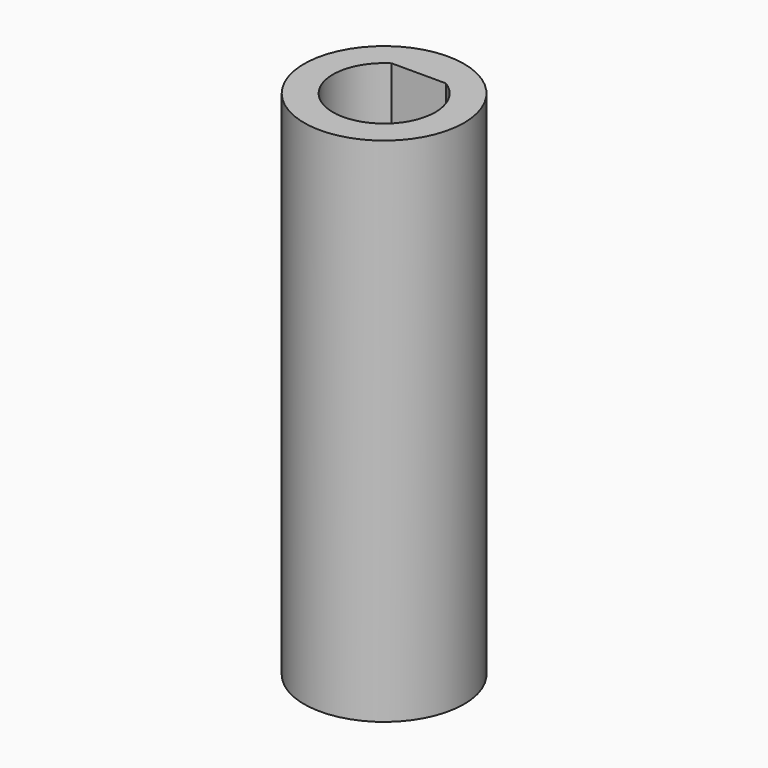
from build123d import *

# Parameters (mm, degrees)
F0_R     = 5
F1_DEPTH = 12
F2_R     = 5
F3_DEPTH = 20


with BuildPart() as f1:
    # F0 (on Top) → F1 (new body)
    with BuildSketch(Plane.XY):
        Circle(F0_R)
        with BuildLine():
            ThreePointArc((1.7, 2.711088), (2.8, 1.549193), (3.2, 0))
            ThreePointArc((3.2, 0), (-1.549193, -2.8), (-1.7, 2.711088))
            ThreePointArc((-1.7, 2.711088), (0, 3.2), (1.7, 2.711088))
        make_face(mode=Mode.SUBTRACT)
        with BuildLine():
            Line((-1.7, 2.711088), (1.7, 2.711088))
            ThreePointArc((1.7, 2.711088), (0, 3.2), (-1.7, 2.711088))
        make_face()
    extrude(amount=F1_DEPTH)

    # F2 (on Top) → F3 (join)
    with BuildSketch(Plane.XY):
        Circle(F2_R)
        with BuildLine():
            ThreePointArc((2.476232, 1.076232), (2.643466, 0.549624), (2.7, 0))
            ThreePointArc((2.7, 0), (2.643466, -0.549624), (2.476232, -1.076232))
            ThreePointArc((2.476232, -1.076232), (1.909188, -1.909188), (1.076232, -2.476232))
            ThreePointArc((1.076232, -2.476232), (0, -2.7), (-1.076232, -2.476232))
            ThreePointArc((-1.076232, -2.476232), (-1.909188, -1.909188), (-2.476232, -1.076232))
            ThreePointArc((-2.476232, -1.076232), (-2.7, 0), (-2.476232, 1.076232))
            ThreePointArc((-2.476232, 1.076232), (-1.909188, 1.909188), (-1.076232, 2.476232))
            ThreePointArc((-1.076232, 2.476232), (0, 2.7), (1.076232, 2.476232))
            ThreePointArc((1.076232, 2.476232), (1.909188, 1.909188), (2.476232, 1.076232))
        make_face(mode=Mode.SUBTRACT)
        with BuildLine():
            ThreePointArc((-2.476232, -1.076232), (-1.909188, -1.909188), (-1.076232, -2.476232))
            Line((-1.076232, -2.476232), (-1.076232, -1.076232))
            Line((-1.076232, -1.076232), (-2.476232, -1.076232))
        make_face()
        with BuildLine():
            Line((-1.076232, 1.076232), (-1.076232, 2.476232))
            ThreePointArc((-1.076232, 2.476232), (-1.909188, 1.909188), (-2.476232, 1.076232))
            Line((-2.476232, 1.076232), (-1.076232, 1.076232))
        make_face()
        with BuildLine():
            Line((1.076232, 1.076232), (2.476232, 1.076232))
            ThreePointArc((2.476232, 1.076232), (1.909188, 1.909188), (1.076232, 2.476232))
            Line((1.076232, 2.476232), (1.076232, 1.076232))
        make_face()
        with BuildLine():
            ThreePointArc((1.076232, -2.476232), (1.909188, -1.909188), (2.476232, -1.076232))
            Line((2.476232, -1.076232), (1.076232, -1.076232))
            Line((1.076232, -1.076232), (1.076232, -2.476232))
        make_face()
    extrude(amount=-F3_DEPTH)


solid = f1.part
